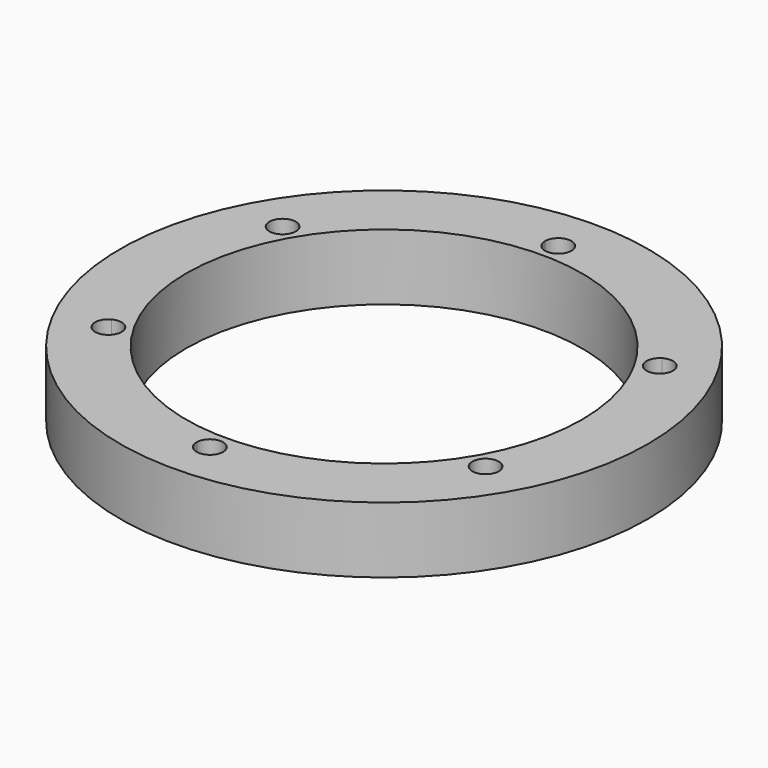
from build123d import *

# Parameters (mm, degrees)
F0_R     = 20
F0_R_2   = 15
F1_DEPTH = 5


with BuildPart() as f1:
    # F0 (on Top) → F1 (new body)
    with BuildSketch(Plane.XY):
        Circle(F0_R)
        with BuildLine():
            ThreePointArc((14.762946, 7.369221), (16.059866, 3.78559), (16.5, 0))
            ThreePointArc((16.5, 0), (16.059866, -3.78559), (14.762946, -7.369221))
            ThreePointArc((14.762946, -7.369221), (15.147769, -7.736934), (15.289419, -8.25))
            ThreePointArc((15.289419, -8.25), (14.776239, -9.123503), (13.763406, -9.100476))
            ThreePointArc((13.763406, -9.100476), (8.25, -14.289419), (0.999541, -16.469697))
            ThreePointArc((0.999541, -16.469697), (0.999885, -16.484847), (1, -16.5))
            ThreePointArc((1, -16.5), (-0.015153, -17.499885), (-0.999541, -16.469697))
            ThreePointArc((-0.999541, -16.469697), (-8.25, -14.289419), (-13.763406, -9.100476))
            ThreePointArc((-13.763406, -9.100476), (-15.155445, -8.75), (-14.762946, -7.369221))
            ThreePointArc((-14.762946, -7.369221), (-16.5, 0), (-14.762946, 7.369221))
            ThreePointArc((-14.762946, 7.369221), (-15.155445, 8.75), (-13.763406, 9.100476))
            ThreePointArc((-13.763406, 9.100476), (-8.25, 14.289419), (-0.999541, 16.469697))
            ThreePointArc((-0.999541, 16.469697), (-0.015153, 17.499885), (1, 16.5))
            ThreePointArc((1, 16.5), (0.999885, 16.484847), (0.999541, 16.469697))
            ThreePointArc((0.999541, 16.469697), (8.25, 14.289419), (13.763406, 9.100476))
            ThreePointArc((13.763406, 9.100476), (14.776239, 9.123503), (15.289419, 8.25))
            ThreePointArc((15.289419, 8.25), (15.147769, 7.736934), (14.762946, 7.369221))
        make_face(mode=Mode.SUBTRACT)
        with BuildLine():
            ThreePointArc((14.762946, -7.369221), (16.059866, -3.78559), (16.5, 0))
            ThreePointArc((16.5, 0), (16.059866, 3.78559), (14.762946, 7.369221))
            ThreePointArc((14.762946, 7.369221), (13.423394, 7.75), (13.763406, 9.100476))
            ThreePointArc((13.763406, 9.100476), (8.25, 14.289419), (0.999541, 16.469697))
            ThreePointArc((0.999541, 16.469697), (0, 15.5), (-0.999541, 16.469697))
            ThreePointArc((-0.999541, 16.469697), (-8.25, 14.289419), (-13.763406, 9.100476))
            ThreePointArc((-13.763406, 9.100476), (-13.415917, 8.736819), (-13.289419, 8.25))
            ThreePointArc((-13.289419, 8.25), (-13.776353, 7.391651), (-14.762946, 7.369221))
            ThreePointArc((-14.762946, 7.369221), (-16.5, 0), (-14.762946, -7.369221))
            ThreePointArc((-14.762946, -7.369221), (-13.776353, -7.391651), (-13.289419, -8.25))
            ThreePointArc((-13.289419, -8.25), (-13.415917, -8.736819), (-13.763406, -9.100476))
            ThreePointArc((-13.763406, -9.100476), (-8.25, -14.289419), (-0.999541, -16.469697))
            ThreePointArc((-0.999541, -16.469697), (0, -15.5), (0.999541, -16.469697))
            ThreePointArc((0.999541, -16.469697), (8.25, -14.289419), (13.763406, -9.100476))
            ThreePointArc((13.763406, -9.100476), (13.423394, -7.75), (14.762946, -7.369221))
        make_face()
        Circle(F0_R_2, mode=Mode.SUBTRACT)
    extrude(amount=F1_DEPTH)


solid = f1.part
